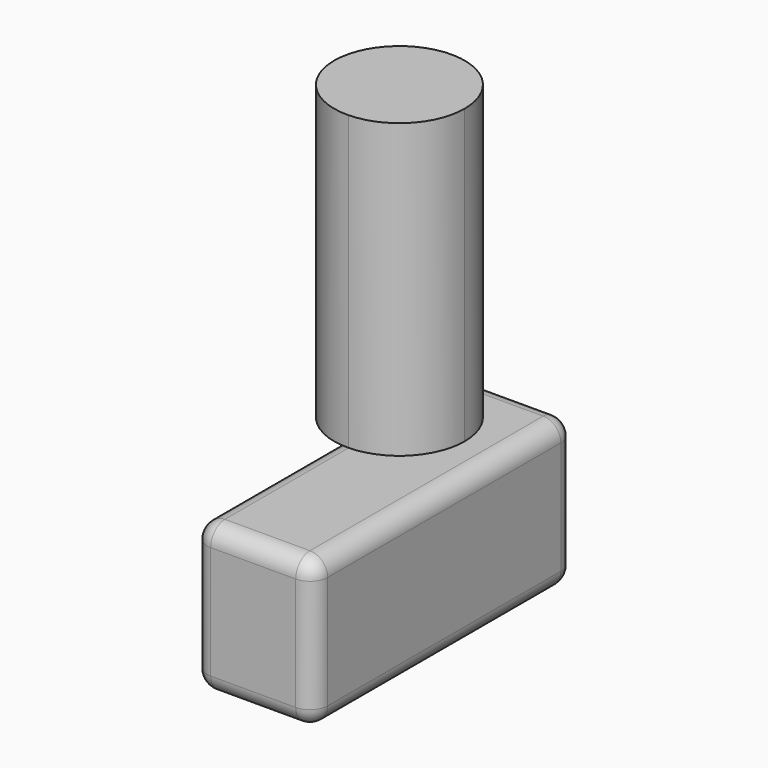
from build123d import *

# Parameters (mm, degrees)
F0_W     = 47.344006598
F0_H     = 58.3720691502
F1_DEPTH = 128.4994799644
F2_R     = 6.9700197205
F4_DEPTH = 115.1127442718


with BuildPart() as f1:
    # F0 (on Front) → F1 (new body)
    with BuildSketch(Plane.XZ):
        with Locations((23.672003299, 29.1860345751)):
            Rectangle(F0_W, F0_H)
    extrude(amount=F1_DEPTH)

    # F2
    f2_edges = [f1.edges().sort_by_distance(p)[0] for p in [
        (23.672003, -128.49948, 58.372069),
        (47.344007, -64.24974, 58.372069),
        (0, -64.24974, 58.372069),
        (23.672003, 0, 58.372069),
        (47.344007, -128.49948, 29.186035),
        (0, -128.49948, 29.186035),
        (23.672003, -128.49948, 0),
        (47.344007, -64.24974, 0),
        (47.344007, 0, 29.186035),
        (0, 0, 29.186035),
        (23.672003, 0, 0),
        (0, -64.24974, 0),
    ]]
    fillet(f2_edges, radius=F2_R)

    # F3 (on face) → F4 (join)
    with BuildSketch(Plane.XY.offset(58.3720691502)):
        with BuildLine():
            Line((6.9700197205, -60.7335358806), (6.9700197205, -9.472435718))
            ThreePointArc((6.9700197205, -9.472435718), (-19.2179336437, -35.1029857993), (6.9700197205, -60.7335358806))
        make_face()
        with BuildLine():
            ThreePointArc((6.9700197205, -60.7335358806), (24.7402160172, -53.03468171), (32.0550306924, -35.1029857993))
            ThreePointArc((32.0550306924, -35.1029857993), (24.7402160172, -17.1712898886), (6.9700197205, -9.472435718))
            Line((6.9700197205, -9.472435718), (6.9700197205, -60.7335358806))
        make_face()
    extrude(amount=F4_DEPTH)


solid = f1.part
